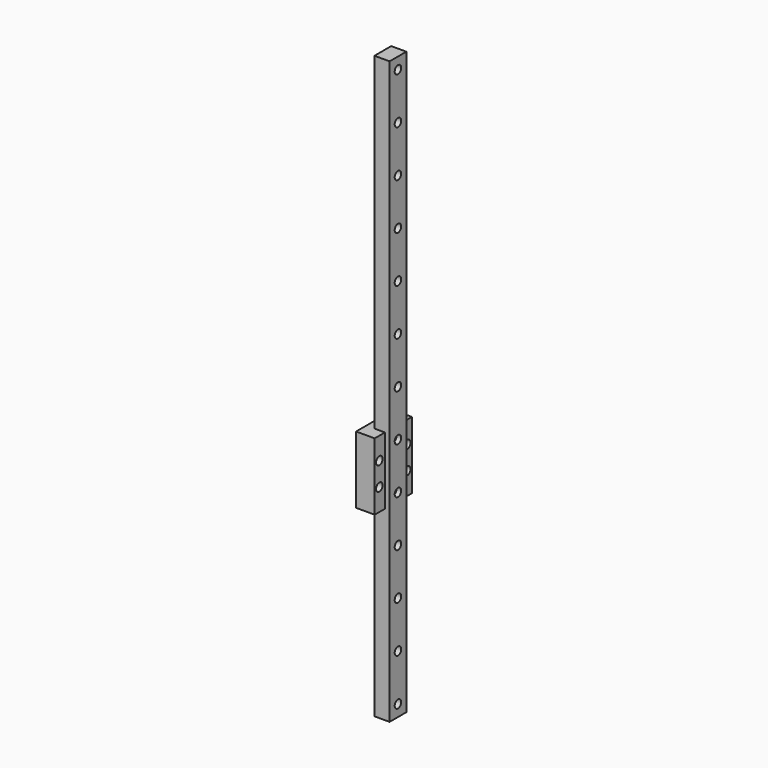
from build123d import *

# Parameters (mm, degrees)
SKETCH046_W             = 9
SKETCH046_H             = 250
PAD023_DEPTH            = 6.5
SKETCH043_R             = 1.75
POCKET019_DEPTH         = 6.5
LINEARPATTERN010_COUNT  = 13
LINEARPATTERN010_PITCH  = 20
SKETCH045_R             = 3
POCKET020_DEPTH         = 3.5
LINEARPATTERN011_COUNT  = 13
LINEARPATTERN011_PITCH  = 20
SKETCH044_W             = 20
SKETCH044_H             = 28.9
SKETCH044_R             = 1.75
PAD024_DEPTH            = 8
BODY010_ROLL_ANGLE      = 90
BODY010_PLACEMENT_ANGLE = -90


with BuildPart() as part:
    # Sketch046 → Pad023 (new body)
    with BuildSketch(Plane.XY):
        with Locations((0, 125)):
            Rectangle(SKETCH046_W, SKETCH046_H)
    extrude(amount=-PAD023_DEPTH)

    # Sketch043 → Pocket019 (cut)
    with BuildSketch(Plane.XY):
        with Locations((0, 5)):
            Circle(SKETCH043_R)
    pocket019 = extrude(amount=-POCKET019_DEPTH, mode=Mode.SUBTRACT)

    # LinearPattern010: Pocket019 ×13
    with Locations(*[(0, i * LINEARPATTERN010_PITCH, 0) for i in range(1, LINEARPATTERN010_COUNT)]):
        add(pocket019, mode=Mode.SUBTRACT)

    # Sketch045 → Pocket020 (cut)
    with BuildSketch(Plane.XY):
        with Locations((0, 5)):
            Circle(SKETCH045_R)
    pocket020 = extrude(amount=-POCKET020_DEPTH, mode=Mode.SUBTRACT)

    # LinearPattern011: Pocket020 ×13
    with Locations(*[(0, i * LINEARPATTERN011_PITCH, 0) for i in range(1, LINEARPATTERN011_COUNT)]):
        add(pocket020, mode=Mode.SUBTRACT)

    # Sketch044 → Pad024 (join)
    with BuildSketch(Plane.XY.offset(-4.5)):
        with Locations((0, 94.45)):
            Rectangle(SKETCH044_W, SKETCH044_H)
        with Locations((-7.5, 99.45)):
            Circle(SKETCH044_R, mode=Mode.SUBTRACT)
        with Locations((7.5, 99.45)):
            Circle(SKETCH044_R, mode=Mode.SUBTRACT)
        with Locations((7.5, 89.45)):
            Circle(SKETCH044_R, mode=Mode.SUBTRACT)
        with Locations((-7.5, 89.45)):
            Circle(SKETCH044_R, mode=Mode.SUBTRACT)
    extrude(amount=PAD024_DEPTH)


with BuildPart() as part_1:
    # Body010 roll: moved
    add(part.part.rotate(Axis((0, 0, 0), (1, 0, 0)), BODY010_ROLL_ANGLE))


with BuildPart() as part_2:
    # Body010 placement: moved
    add(part_1.part.rotate(Axis((0, 0, 0), (0, 0, 1)), BODY010_PLACEMENT_ANGLE))


solid = part_2.part
